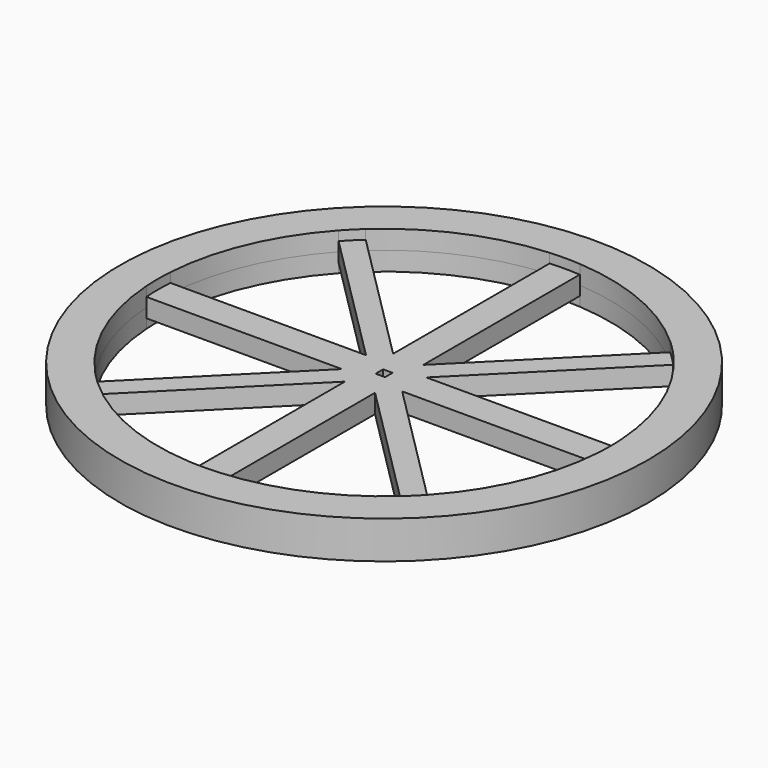
from build123d import *

# Parameters (mm, degrees)
F0_R          = 88.9
F1_DEPTH      = 6.35
F1_DEPTH_BACK = 6.35
F2_DEPTH      = 3.175
F2_DEPTH_BACK = 3.175
F3_W          = 3.175
F3_H          = 3.175
F4_DEPTH      = 127
F4_DEPTH_BACK = 25.4


with BuildPart() as f1:
    # F0 (on Top) → F1 (new body, two sides)
    with BuildSketch(Plane.XY) as f1_sk:
        Circle(F0_R)
        with BuildLine():
            ThreePointArc((76.0304780992, 5.08), (76.1576077328, 2.5414138621), (76.2, 0))
            ThreePointArc((76.2, 0), (76.1576077328, -2.5414138621), (76.0304780992, -5.08))
            ThreePointArc((76.0304780992, -5.08), (70.1110952475, -29.8475178733), (56.3616350551, -51.2816350551))
            ThreePointArc((56.3616350551, -51.2816350551), (53.8815367264, -53.8815367264), (51.2816350551, -56.3616350551))
            ThreePointArc((51.2816350551, -56.3616350551), (29.8475178733, -70.1110952475), (5.08, -76.0304780992))
            ThreePointArc((5.08, -76.0304780992), (0, -76.2), (-5.08, -76.0304780992))
            ThreePointArc((-5.08, -76.0304780992), (-29.8475178733, -70.1110952475), (-51.2816350551, -56.3616350551))
            ThreePointArc((-51.2816350551, -56.3616350551), (-53.8815367264, -53.8815367264), (-56.3616350551, -51.2816350551))
            ThreePointArc((-56.3616350551, -51.2816350551), (-70.1110952475, -29.8475178733), (-76.0304780992, -5.08))
            ThreePointArc((-76.0304780992, -5.08), (-76.2, 0), (-76.0304780992, 5.08))
            ThreePointArc((-76.0304780992, 5.08), (-70.1110952475, 29.8475178733), (-56.3616350551, 51.2816350551))
            ThreePointArc((-56.3616350551, 51.2816350551), (-53.8815367264, 53.8815367264), (-51.2816350551, 56.3616350551))
            ThreePointArc((-51.2816350551, 56.3616350551), (-29.8475178733, 70.1110952475), (-5.08, 76.0304780992))
            ThreePointArc((-5.08, 76.0304780992), (0, 76.2), (5.08, 76.0304780992))
            ThreePointArc((5.08, 76.0304780992), (29.8475178733, 70.1110952475), (51.2816350551, 56.3616350551))
            ThreePointArc((51.2816350551, 56.3616350551), (53.8815367264, 53.8815367264), (56.3616350551, 51.2816350551))
            ThreePointArc((56.3616350551, 51.2816350551), (70.1110952475, 29.8475178733), (76.0304780992, 5.08))
        make_face(mode=Mode.SUBTRACT)
    extrude(amount=F1_DEPTH)
    extrude(f1_sk.sketch, amount=-F1_DEPTH_BACK)

    # F0 (on Top) → F2 (join, two sides)
    with BuildSketch(Plane.XY) as f2_sk:
        with BuildLine():
            ThreePointArc((76.0304780992, -5.08), (76.1576077328, -2.5414138621), (76.2, 0))
            ThreePointArc((76.2, 0), (76.1576077328, 2.5414138621), (76.0304780992, 5.08))
            Line((76.0304780992, 5.08), (10.16, 5.08))
            Line((10.16, 5.08), (56.3616350551, 51.2816350551))
            ThreePointArc((56.3616350551, 51.2816350551), (53.8815367264, 53.8815367264), (51.2816350551, 56.3616350551))
            Line((51.2816350551, 56.3616350551), (5.08, 10.16))
            Line((5.08, 10.16), (5.08, 76.0304780992))
            ThreePointArc((5.08, 76.0304780992), (0, 76.2), (-5.08, 76.0304780992))
            Line((-5.08, 76.0304780992), (-5.08, 10.16))
            Line((-5.08, 10.16), (-51.2816350551, 56.3616350551))
            ThreePointArc((-51.2816350551, 56.3616350551), (-53.8815367264, 53.8815367264), (-56.3616350551, 51.2816350551))
            Line((-56.3616350551, 51.2816350551), (-10.16, 5.08))
            Line((-10.16, 5.08), (-76.0304780992, 5.08))
            ThreePointArc((-76.0304780992, 5.08), (-76.2, 0), (-76.0304780992, -5.08))
            Line((-76.0304780992, -5.08), (-10.16, -5.08))
            Line((-10.16, -5.08), (-56.3616350551, -51.2816350551))
            ThreePointArc((-56.3616350551, -51.2816350551), (-53.8815367264, -53.8815367264), (-51.2816350551, -56.3616350551))
            Line((-51.2816350551, -56.3616350551), (-5.08, -10.16))
            Line((-5.08, -10.16), (-5.08, -76.0304780992))
            ThreePointArc((-5.08, -76.0304780992), (0, -76.2), (5.08, -76.0304780992))
            Line((5.08, -76.0304780992), (5.08, -10.16))
            Line((5.08, -10.16), (51.2816350551, -56.3616350551))
            ThreePointArc((51.2816350551, -56.3616350551), (53.8815367264, -53.8815367264), (56.3616350551, -51.2816350551))
            Line((56.3616350551, -51.2816350551), (10.16, -5.08))
            Line((10.16, -5.08), (76.0304780992, -5.08))
        make_face()
    extrude(amount=F2_DEPTH)
    extrude(f2_sk.sketch, amount=-F2_DEPTH_BACK)

    # F3 (on face) → F4 (cut, two sides)
    with BuildSketch(Plane.XY) as f4_sk:
        Rectangle(F3_W, F3_H)
    extrude(amount=-F4_DEPTH, mode=Mode.SUBTRACT)
    extrude(f4_sk.sketch, amount=F4_DEPTH_BACK, mode=Mode.SUBTRACT)


solid = f1.part
